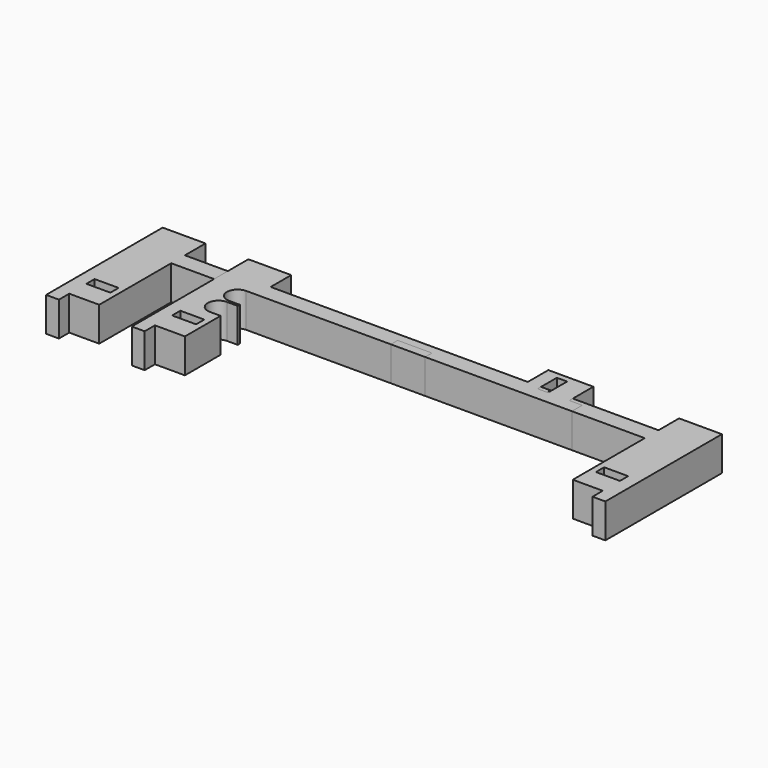
from build123d import *

# Parameters (mm, degrees)
SKETCH_W      = 5.6
SKETCH_H      = 2.4
PAD_DEPTH     = 4
SKETCH001_W   = 2.4
SKETCH001_H   = 5.6
SKETCH001_W_2 = 5.6
SKETCH001_H_2 = 2.4
PAD001_DEPTH  = 4


with BuildPart() as longbatteryholder:
    # Sketch → Pad (new body, symmetric)
    with BuildSketch(Plane.XY):
        Polygon((-55.25, 0), (-62.25, 0), (-62.25, -3), (-65.25, -3), (-65.25, 31), (-55.25, 31), (-55.25, 25), (-30.5, 25), (-30.5, 24.5), (-30, 24.5), (-30, 25), (-4, 25), (-4, 23), (4, 23), (4, 25), (30, 25), (30, 24.5), (30.5, 24.5), (30.5, 25), (55.25, 25), (55.25, 31), (65.25, 31), (65.25, -3), (62.25, -3), (62.25, 0), (55.25, 0), (55.25, 21), (-55.25, 21), align=None)
        with Locations((59.45, 6.2)):
            Rectangle(SKETCH_W, SKETCH_H, mode=Mode.SUBTRACT)
        with Locations((-59.45, 6.2)):
            Rectangle(SKETCH_W, SKETCH_H, mode=Mode.SUBTRACT)
    extrude(amount=PAD_DEPTH, both=True)


with BuildPart() as shortbatteryholder:
    # Sketch001 → Pad001 (new body, symmetric)
    with BuildSketch(Plane.XY):
        with BuildLine():
            Line((24.75, 25), (24.75, 31))
            Line((24.75, 31), (35.25, 31))
            Line((35.25, 31), (35.25, 24))
            Line((35.25, 24), (38.25, 24))
            Line((38.25, 24), (38.25, 21))
            Line((38.25, 21), (35.25, 21))
            Line((4, 21), (35.25, 21))
            Line((4, 23), (4, 21))
            Line((-4, 23), (4, 23))
            Line((-4, 21), (-4, 23))
            Line((-35.25, 21), (-4, 21))
            Line((-35.25, 21), (-37.75, 21))
            ThreePointArc((-37.75, 21), (-40.25, 18.5), (-37.75, 16))
            Line((-37.75, 16), (-35.25, 16))
            Line((-35.25, 16), (-35.25, 15.4))
            Line((-35.25, 15.4), (-37.75, 15.4))
            ThreePointArc((-37.75, 15.4), (-40.25, 12.9), (-37.75, 10.4))
            Line((-37.75, 10.4), (-35.25, 10.4))
            Line((-35.25, 10.4), (-35.25, 0))
            Line((-35.25, 0), (-42.25, 0))
            Line((-42.25, 0), (-42.25, -3))
            Line((-42.25, -3), (-45.25, -3))
            Line((-45.25, -3), (-45.25, 31))
            Line((-45.25, 31), (-35.25, 31))
            Line((-35.25, 31), (-35.25, 25))
            Line((-35.25, 25), (24.75, 25))
        make_face()
        with Locations((29.05, 26.8)):
            Rectangle(SKETCH001_W, SKETCH001_H, mode=Mode.SUBTRACT)
        with Locations((-39.45, 6.2)):
            Rectangle(SKETCH001_W_2, SKETCH001_H_2, mode=Mode.SUBTRACT)
    extrude(amount=PAD001_DEPTH, both=True)


solid = Compound([longbatteryholder.part, shortbatteryholder.part])
